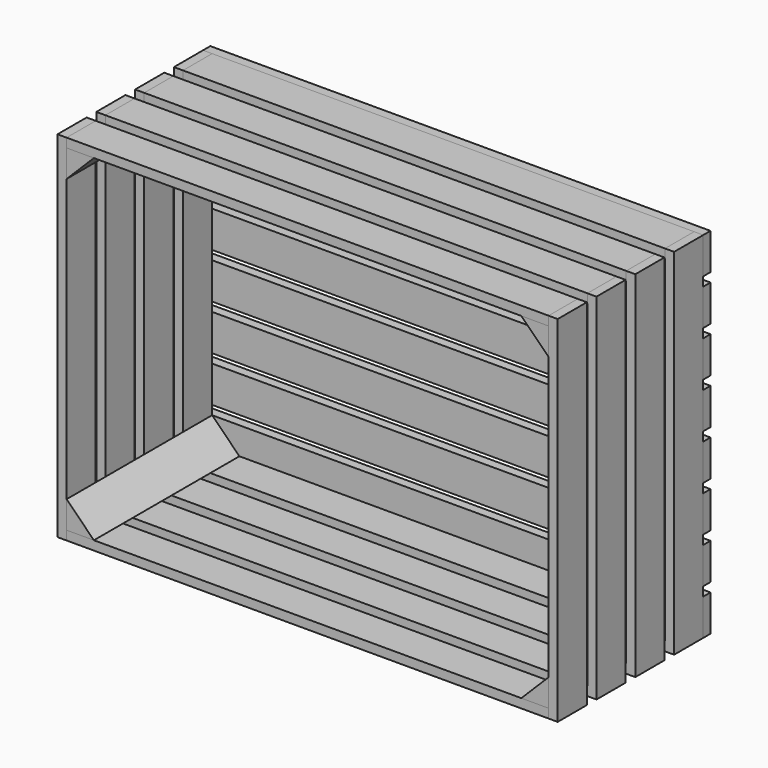
from build123d import *

# Parameters (mm, degrees)
F4_DEPTH  = 40
F5_DEPTH  = 200
F6_DEPTH  = 40
F7_W      = 40
F7_H      = 390
F8_DEPTH  = 10
F10_W     = 530
F10_H     = 40
F11_DEPTH = 10
F13_W     = 530
F13_H     = 10
F14_DEPTH = 10
F13_W_2   = 550
F13_H_2   = 40
F15_DEPTH = 10


with BuildPart() as f4:
    # F3 (on Front) → F4 (new body)
    with BuildSketch(Plane.XZ):
        Polygon((-265, 195), (-275, 195), (-275, -195), (-265, -195), (-265, -185), (-265, -155), (-265, 155), (-265, 185), align=None)
        Polygon((-265, 195), (-275, 195), (-275, -195), (-265, -195), (-265, -185), (-265, -155), (-265, 155), (-265, 185), align=None)
        Polygon((-265, 195), (-275, 195), (-275, -195), (-265, -195), (-265, -185), (-265, -155), (-265, 155), (-265, 185), align=None)
    extrude(amount=-F4_DEPTH)


with BuildPart() as f4b:
    # F3 (on Front) → F4, piece 2 (new body)
    with BuildSketch(Plane.XZ):
        Polygon((275, 195), (265, 195), (265, 185), (265, 155), (265, -155), (265, -185), (265, -195), (275, -195), align=None)
        Polygon((275, 195), (265, 195), (265, 185), (265, 155), (265, -155), (265, -185), (265, -195), (275, -195), align=None)
        Polygon((275, 195), (265, 195), (265, 185), (265, 155), (265, -155), (265, -185), (265, -195), (275, -195), align=None)
    extrude(amount=-F4_DEPTH)


with BuildPart() as f5:
    # F3 (on Front) → F5 (new body)
    with BuildSketch(Plane.XZ):
        Polygon((-235, 185), (-265, 185), (-265, 155), align=None)
    extrude(amount=-F5_DEPTH)


with BuildPart() as f5b:
    # F3 (on Front) → F5, piece 2 (new body)
    with BuildSketch(Plane.XZ):
        Polygon((265, 155), (265, 185), (235, 185), align=None)
    extrude(amount=-F5_DEPTH)


with BuildPart() as f5c:
    # F3 (on Front) → F5, piece 3 (new body)
    with BuildSketch(Plane.XZ):
        Polygon((235, -185), (265, -185), (265, -155), align=None)
    extrude(amount=-F5_DEPTH)


with BuildPart() as f5d:
    # F3 (on Front) → F5, piece 4 (new body)
    with BuildSketch(Plane.XZ):
        Polygon((-265, -155), (-265, -185), (-235, -185), align=None)
    extrude(amount=-F5_DEPTH)


with BuildPart() as f6:
    # F3 (on Front) → F6 (new body)
    with BuildSketch(Plane.XZ):
        Polygon((265, 195), (-265, 195), (-265, 185), (-235, 185), (235, 185), (265, 185), align=None)
    extrude(amount=-F6_DEPTH)


with BuildPart() as f6b:
    # F3 (on Front) → F6, piece 2 (new body)
    with BuildSketch(Plane.XZ):
        Polygon((-265, -185), (-265, -195), (265, -195), (265, -185), (235, -185), (-235, -185), align=None)
    extrude(amount=-F6_DEPTH)


with BuildPart() as f8:
    # F7 (on face) → F8 (new body, through all)
    with BuildSketch(Plane.YZ.offset(275)):
        with Locations((73.3333333333, 0)):
            Rectangle(F7_W, F7_H)
    extrude(amount=-F8_DEPTH)


with BuildPart() as f8b:
    # F7 (on face) → F8, piece 2 (new body, through all)
    with BuildSketch(Plane.YZ.offset(275)):
        with Locations((126.6666666667, 0)):
            Rectangle(F7_W, F7_H)
    extrude(amount=-F8_DEPTH)


with BuildPart() as f8c:
    # F7 (on face) → F8, piece 3 (new body, through all)
    with BuildSketch(Plane.YZ.offset(275)):
        with Locations((180, 0)):
            Rectangle(F7_W, F7_H)
    extrude(amount=-F8_DEPTH)


with BuildPart() as f9_1:
    # F9: instance of F8
    add(f8.part.mirror(Plane.YZ))


with BuildPart() as f9_2:
    # F9: instance of F8b
    add(f8b.part.mirror(Plane.YZ))


with BuildPart() as f9_3:
    # F9: instance of F8c
    add(f8c.part.mirror(Plane.YZ))


with BuildPart() as f11:
    # F10 (on face) → F11 (new body, through all)
    with BuildSketch(Plane.XY.offset(195)):
        with Locations((0, 73.3333333333)):
            Rectangle(F10_W, F10_H)
    extrude(amount=-F11_DEPTH)


with BuildPart() as f11b:
    # F10 (on face) → F11, piece 2 (new body, through all)
    with BuildSketch(Plane.XY.offset(195)):
        with Locations((0, 126.6666666667)):
            Rectangle(F10_W, F10_H)
    extrude(amount=-F11_DEPTH)


with BuildPart() as f11c:
    # F10 (on face) → F11, piece 3 (new body, through all)
    with BuildSketch(Plane.XY.offset(195)):
        with Locations((0, 180)):
            Rectangle(F10_W, F10_H)
    extrude(amount=-F11_DEPTH)


with BuildPart() as f12_1:
    # F12: instance of F11
    add(f11.part.mirror(Plane.XY))


with BuildPart() as f12_2:
    # F12: instance of F11b
    add(f11b.part.mirror(Plane.XY))


with BuildPart() as f12_3:
    # F12: instance of F11c
    add(f11c.part.mirror(Plane.XY))


with BuildPart() as f14:
    # F13 (on face) → F14 (new body)
    with BuildSketch(Plane(origin=(0, 200, 0), x_dir=(-1, 0, 0), z_dir=(0, 1, 0))):
        Polygon((-265, 195), (-275, 195), (-275, 155), (275, 155), (275, 195), (265, 195), (265, 185), (-265, 185), align=None)
        with Locations((0, 190)):
            Rectangle(F13_W, F13_H)
    extrude(amount=F14_DEPTH)


with BuildPart() as f15:
    # F13 (on face) → F15 (new body)
    with BuildSketch(Plane(origin=(0, 200, 0), x_dir=(-1, 0, 0), z_dir=(0, 1, 0))):
        with Locations((0, 125)):
            Rectangle(F13_W_2, F13_H_2)
    extrude(amount=F15_DEPTH)


with BuildPart() as f15b:
    # F13 (on face) → F15, piece 2 (new body)
    with BuildSketch(Plane(origin=(0, 200, 0), x_dir=(-1, 0, 0), z_dir=(0, 1, 0))):
        with Locations((0, 75)):
            Rectangle(F13_W_2, F13_H_2)
    extrude(amount=F15_DEPTH)


with BuildPart() as f15c:
    # F13 (on face) → F15, piece 3 (new body)
    with BuildSketch(Plane(origin=(0, 200, 0), x_dir=(-1, 0, 0), z_dir=(0, 1, 0))):
        with Locations((0, 25)):
            Rectangle(F13_W_2, F13_H_2)
    extrude(amount=F15_DEPTH)


with BuildPart() as f15d:
    # F13 (on face) → F15, piece 4 (new body)
    with BuildSketch(Plane(origin=(0, 200, 0), x_dir=(-1, 0, 0), z_dir=(0, 1, 0))):
        with Locations((0, -25)):
            Rectangle(F13_W_2, F13_H_2)
    extrude(amount=F15_DEPTH)


with BuildPart() as f15e:
    # F13 (on face) → F15, piece 5 (new body)
    with BuildSketch(Plane(origin=(0, 200, 0), x_dir=(-1, 0, 0), z_dir=(0, 1, 0))):
        with Locations((0, -75)):
            Rectangle(F13_W_2, F13_H_2)
    extrude(amount=F15_DEPTH)


with BuildPart() as f15f:
    # F13 (on face) → F15, piece 6 (new body)
    with BuildSketch(Plane(origin=(0, 200, 0), x_dir=(-1, 0, 0), z_dir=(0, 1, 0))):
        with Locations((0, -125)):
            Rectangle(F13_W_2, F13_H_2)
    extrude(amount=F15_DEPTH)


with BuildPart() as f15g:
    # F13 (on face) → F15, piece 7 (new body)
    with BuildSketch(Plane(origin=(0, 200, 0), x_dir=(-1, 0, 0), z_dir=(0, 1, 0))):
        with Locations((0, -175)):
            Rectangle(F13_W_2, F13_H_2)
    extrude(amount=F15_DEPTH)


solid = Compound([f4.part, f4b.part, f5.part, f5b.part, f5c.part, f5d.part, f6.part, f6b.part, f8.part, f8b.part, f8c.part, f9_1.part, f9_2.part, f9_3.part, f11.part, f11b.part, f11c.part, f12_1.part, f12_2.part, f12_3.part, f14.part, f15.part, f15b.part, f15c.part, f15d.part, f15e.part, f15f.part, f15g.part])
